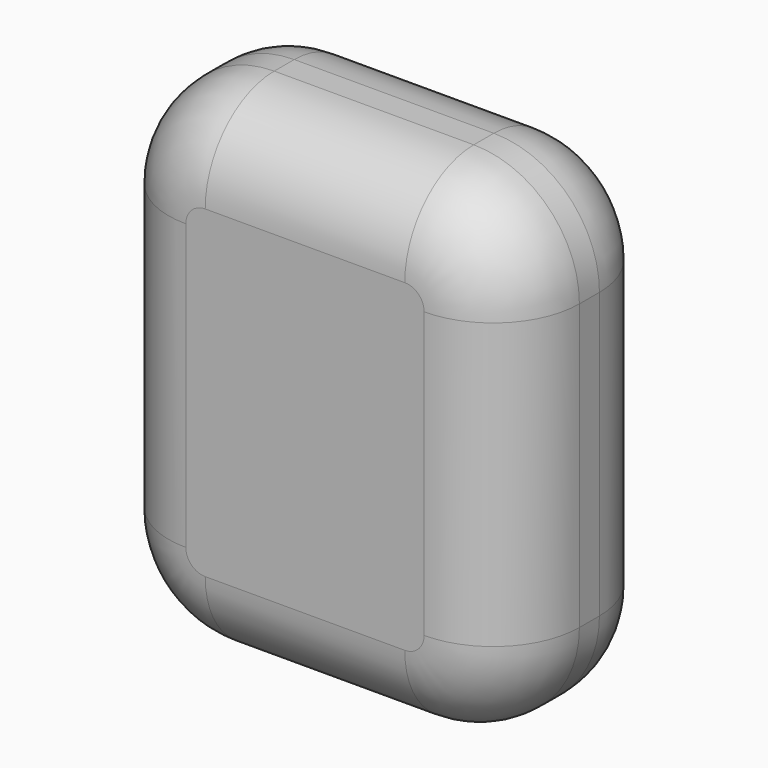
from build123d import *

# Parameters (mm, degrees)
F0_W     = 44.3
F0_H     = 53.5
F1_DEPTH = 21.3
F2_R     = 11.39
F3_R     = 11.391
F4_R     = 11.391
F5_R     = 9.3
F6_W     = 6.7
F6_H     = 1.5
F7_DEPTH = 6.7


with BuildPart() as f1:
    # F0 (on Front) → F1 (new body)
    with BuildSketch(Plane.XZ):
        with Locations((22.15, 26.75)):
            Rectangle(F0_W, F0_H)
    extrude(amount=F1_DEPTH)

    # F2
    f2_edges = [f1.edges().sort_by_distance(p)[0] for p in [
        (44.3, -10.65, 0),
    ]]
    fillet(f2_edges, radius=F2_R)

    # F3
    f3_edges = [f1.edges().sort_by_distance(p)[0] for p in [
        (0, -10.65, 0),
    ]]
    fillet(f3_edges, radius=F3_R)

    # F4
    f4_edges = [f1.edges().sort_by_distance(p)[0] for p in [
        (44.3, -10.65, 53.5),
        (0, -10.65, 53.5),
    ]]
    fillet(f4_edges, radius=F4_R)

    # F5
    f5_edges = [f1.edges().sort_by_distance(p)[0] for p in [
        (3.336347, -21.3, 50.163653),
        (3.336347, 0, 50.163653),
    ]]
    fillet(f5_edges, radius=F5_R)

    # F6 (on face) → F7 (cut)
    with BuildSketch(Plane(origin=(0, 0, 0), x_dir=(1, 0, 0), z_dir=(0, 0, -1))):
        with Locations((22.15018, 10.65)):
            Rectangle(F6_W, F6_H)
    extrude(amount=-F7_DEPTH, mode=Mode.SUBTRACT)


solid = f1.part
